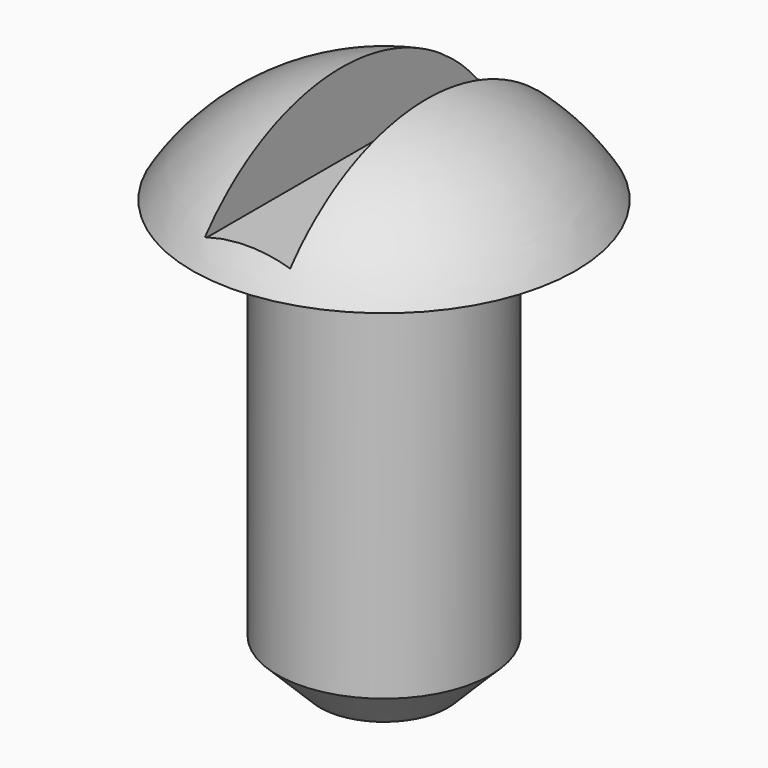
from build123d import *

# Parameters (mm, degrees)
F3_W     = 2.54
F3_H     = 10.16
F4_DEPTH = 2.541
F5_SIZE  = 1.27


with BuildPart() as f1:
    # F0 (on Front) → F1 (revolve)
    with BuildSketch(Plane.XZ):
        with BuildLine():
            Line((0, 15.875), (0, 0))
            Line((0, 0), (3.175, 0))
            Line((3.175, 0), (3.175, 12.7))
            Line((3.175, 12.7), (5.715, 12.7))
            ThreePointArc((5.715, 12.7), (3.268863, 15.027953), (0, 15.875))
        make_face()
    revolve(axis=Axis((0, 0, 8.939208), (0, 0, 1)))

    # F3 (on offset) → F4 (cut, through all)
    with BuildSketch(Plane(origin=(0, 0, 13.335), x_dir=(1, 0, 0), z_dir=(0, 0, -1))):
        Rectangle(F3_W, F3_H)
    extrude(amount=-F4_DEPTH, mode=Mode.SUBTRACT)

    # F5
    f5_edges = [f1.edges().sort_by_distance(p)[0] for p in [
        (-3.175, 0, 0),
    ]]
    chamfer(f5_edges, length=F5_SIZE)


solid = f1.part
